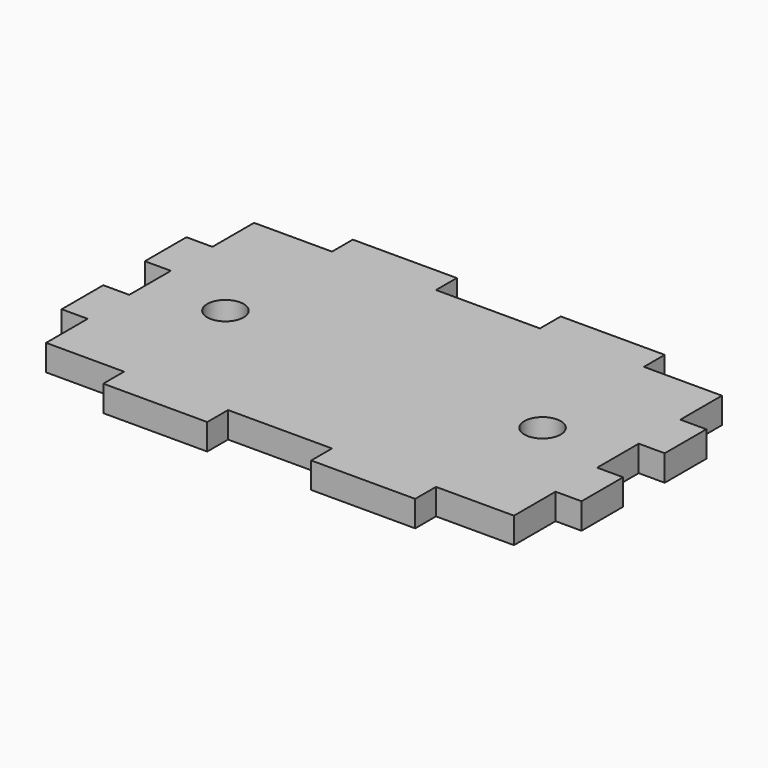
from build123d import *

# Parameters (mm, degrees)
F0_R     = 3.5
F1_DEPTH = 5


with BuildPart() as f1:
    # F0 (on Top) → F1 (new body)
    with BuildSketch(Plane.XY):
        Polygon((45, 15), (45, 25), (30, 25), (30, 30), (10, 30), (10, 25), (-10, 25), (-10, 30), (-30, 30), (-30, 25), (-45, 25), (-45, 15), (-50, 15), (-50, 5), (-45, 5), (-45, -5), (-50, -5), (-50, -15), (-45, -15), (-45, -25), (-30, -25), (-30, -30), (-10, -30), (-10, -25), (10, -25), (10, -30), (30, -30), (30, -25), (45, -25), (45, -15), (50, -15), (50, -5), (45, -5), (45, 5), (50, 5), (50, 15), align=None)
        with Locations((-30.5, 0)):
            Circle(F0_R, mode=Mode.SUBTRACT)
        with Locations((30.5, 0)):
            Circle(F0_R, mode=Mode.SUBTRACT)
    extrude(amount=F1_DEPTH)


solid = f1.part
